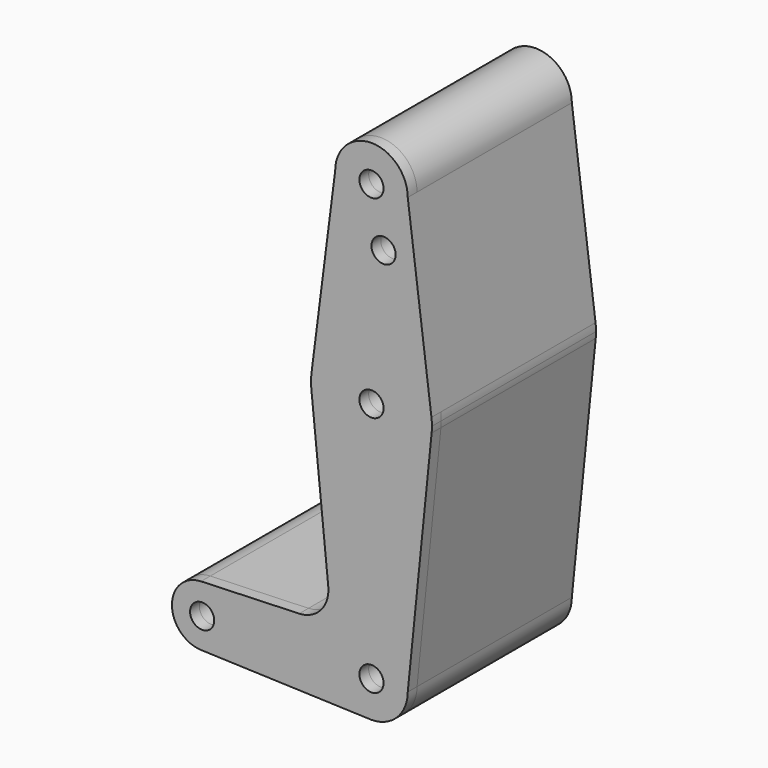
from build123d import *

# Parameters (mm, degrees)
F0_R     = 3.175
F1_DEPTH = 3.048
F2_DEPTH = 50.8


with BuildPart() as f1:
    # F0 (on Front) → F1 (new body)
    with BuildSketch(Plane.XZ):
        with BuildLine():
            Line((15.7474569047, 65.5082893304), (9.525, 114.3))
            ThreePointArc((9.525, 114.3), (0, 104.775), (-9.525, 114.3))
            Line((-9.525, 114.3), (-15.7474569047, 65.5082893304))
            ThreePointArc((-15.7474569047, 65.5082893304), (0, 79.375), (15.7474569047, 65.5082893304))
        make_face()
        with Locations((3.175, 100.0252)):
            Circle(F0_R, mode=Mode.SUBTRACT)
        with BuildLine():
            ThreePointArc((-9.525, 114.3), (0, 104.775), (9.525, 114.3))
            ThreePointArc((9.525, 114.3), (0, 123.825), (-9.525, 114.3))
        make_face()
        with Locations((0, 114.3)):
            Circle(F0_R, mode=Mode.SUBTRACT)
        with BuildLine():
            ThreePointArc((15.875, 63.5), (15.8430821396, 64.5061676396), (15.7474569047, 65.5082893304))
            ThreePointArc((15.7474569047, 65.5082893304), (0, 79.375), (-15.7474569047, 65.5082893304))
            ThreePointArc((-15.7474569047, 65.5082893304), (-15.8735876171, 63.7117573215), (-15.7954255641, 61.9125))
            ThreePointArc((-15.7954255641, 61.9125), (-0.0060905531, 47.6250011683), (15.7942028036, 61.9003804205))
            ThreePointArc((15.7942028036, 61.9003804205), (15.8547878338, 62.6991705884), (15.875, 63.5))
        make_face()
        with Locations((0, 63.5)):
            Circle(F0_R, mode=Mode.SUBTRACT)
        with BuildLine():
            ThreePointArc((15.7942028036, 61.9003804205), (-0.0060905531, 47.6250011683), (-15.7954255641, 61.9125))
            Line((-15.7954255641, 61.9125), (-11.3411865923, 17.5933818124))
            ThreePointArc((-11.3411865923, 17.5933818124), (-13.2611998974, 11.5713591498), (-18.9676000005, 8.8532337108))
            Line((-18.9676000005, 8.8532337108), (-44.7334821429, 7.9324362036))
            ThreePointArc((-44.7334821429, 7.9324362036), (-38.9384772185, 5.7120069047), (-36.5125, 0))
            ThreePointArc((-36.5125, 0), (-38.9380895153, -5.7116327839), (-44.7324052746, -7.9324746146))
            Line((-44.7324052746, -7.9324746146), (-0.6773435479, -9.500885786))
            ThreePointArc((-0.6773435479, -9.500885786), (-6.4912990883, 6.9705567315), (9.525, 0))
            Line((9.525, 0), (15.7942028036, 61.9003804205))
        make_face()
        with BuildLine():
            ThreePointArc((0, -9.525), (6.7351920908, -6.7351920908), (9.525, 0))
            ThreePointArc((9.525, 0), (-6.4912990883, 6.9705567315), (-0.6773435479, -9.500885786))
            Line((-0.6773435479, -9.500885786), (0, -9.525))
        make_face()
        Circle(F0_R, mode=Mode.SUBTRACT)
        with BuildLine():
            ThreePointArc((-36.5125, 0), (-38.9384772185, 5.7120069047), (-44.7334821429, 7.9324362036))
            ThreePointArc((-44.7334821429, 7.9324362036), (-52.3874999817, -0.0005387766), (-44.7324052746, -7.9324746146))
            ThreePointArc((-44.7324052746, -7.9324746146), (-38.9380895153, -5.7116327839), (-36.5125, 0))
        make_face()
        with Locations((-44.45, 0)):
            Circle(F0_R, mode=Mode.SUBTRACT)
    extrude(amount=F1_DEPTH)

    # F2 (add): a face of the model
    f2_faces = [f1.faces().sort_by_distance(p)[0] for p in [
        (-5.2061235435, 0, 46.6226606697),
    ]]
    extrude(f2_faces, amount=F2_DEPTH)


solid = f1.part
